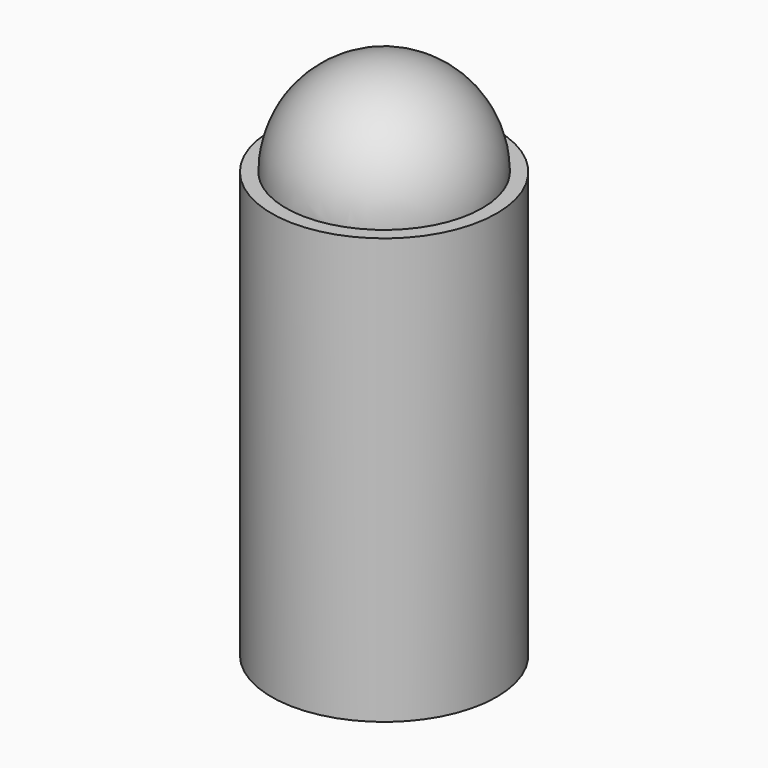
from build123d import *

# Parameters (mm, degrees)
F0_R        = 10.922
F0_R_2      = 9.525
F1_DEPTH    = 13.589
F4_R        = 9.525
F4_R_2      = 1.2065
F5_DEPTH    = 3.175
F5_FACE_R   = 10.922
F5_FACE_R_2 = 1.2065
F6_DEPTH    = 27.686


with BuildPart() as f1:
    # F0 (on Top) → F1 (new body)
    with BuildSketch(Plane.XY):
        Circle(F0_R)
        Circle(F0_R_2, mode=Mode.SUBTRACT)
    extrude(amount=F1_DEPTH)

    # F4 (on Top) → F5 (join)
    with BuildSketch(Plane.XY):
        Circle(F4_R)
        with Locations((-3.048, 0)):
            Circle(F4_R_2, mode=Mode.SUBTRACT)
        with Locations((3.048, 0)):
            Circle(F4_R_2, mode=Mode.SUBTRACT)
    extrude(amount=F5_DEPTH)

    # F5_face (on face) → F6 (join)
    with BuildSketch(Plane(origin=(0, 0, 0), x_dir=(1, 0, 0), z_dir=(0, 0, -1))):
        Circle(F5_FACE_R)
        with Locations((3.048, 0)):
            Circle(F5_FACE_R_2, mode=Mode.SUBTRACT)
        with Locations((-3.048, 0)):
            Circle(F5_FACE_R_2, mode=Mode.SUBTRACT)
    extrude(amount=F6_DEPTH)


with BuildPart() as f3:
    # F2 (on face) → F3 (revolve)
    with BuildSketch(Plane.XY.offset(13.589)):
        with BuildLine():
            Line((9.525, 0), (-9.525, 0))
            ThreePointArc((-9.525, 0), (0, -9.525), (9.525, 0))
        make_face()
    revolve(axis=Axis((7.46786, 0, 13.589), (1, 0, 0)))


solid = Compound([f1.part, f3.part])
